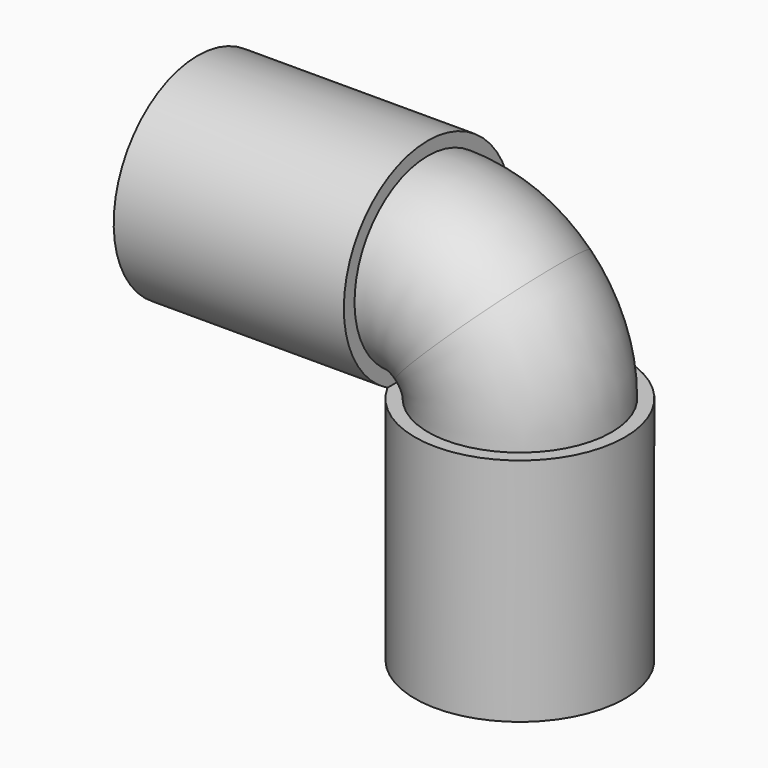
from build123d import *

# Parameters (mm, degrees)
F1_R   = 10.95
F1_R_2 = 10.75
F1_R_3 = 9.15
F1_R_4 = 12.55


with BuildPart() as f2:
    # F2: sweep along a path in F0
    with BuildLine(Plane.XZ) as f2_path:
        ThreePointArc((7.7781745931, 7.7781745931), (10.1626748576, 4.209517756), (11, 0))
    # F1 (on Top) → F2 (sweep)
    with BuildSketch(Plane.XY):
        with Locations((11, 0)):
            Circle(F1_R)
        with Locations((11, 0)):
            Circle(F1_R_2, mode=Mode.SUBTRACT)
        with Locations((11, 0)):
            Circle(F1_R_2)
        with Locations((11, 0)):
            Circle(F1_R_3, mode=Mode.SUBTRACT)
    sweep(path=f2_path.line)

    # F3: sweep along a path in F0
    with BuildLine(Plane.XZ) as f3_path:
        Line((11, 0), (11, -27.5))
    # F1 (on Top) → F3 (sweep)
    with BuildSketch(Plane.XY):
        with Locations((11, 0)):
            Circle(F1_R_4)
        with Locations((11, 0)):
            Circle(F1_R, mode=Mode.SUBTRACT)
        with Locations((11, 0)):
            Circle(F1_R)
        with Locations((11, 0)):
            Circle(F1_R_2, mode=Mode.SUBTRACT)
    sweep(path=f3_path.line)

    # F4: F2 across face


with BuildPart() as f2_1:
    add(f2.part)
    add(f2.part.mirror(Plane(origin=(7.7781745931, 0, 7.7781745931), x_dir=(0, -1, 0), z_dir=(-0.7071067812, 0, 0.7071067812))))


solid = f2_1.part
